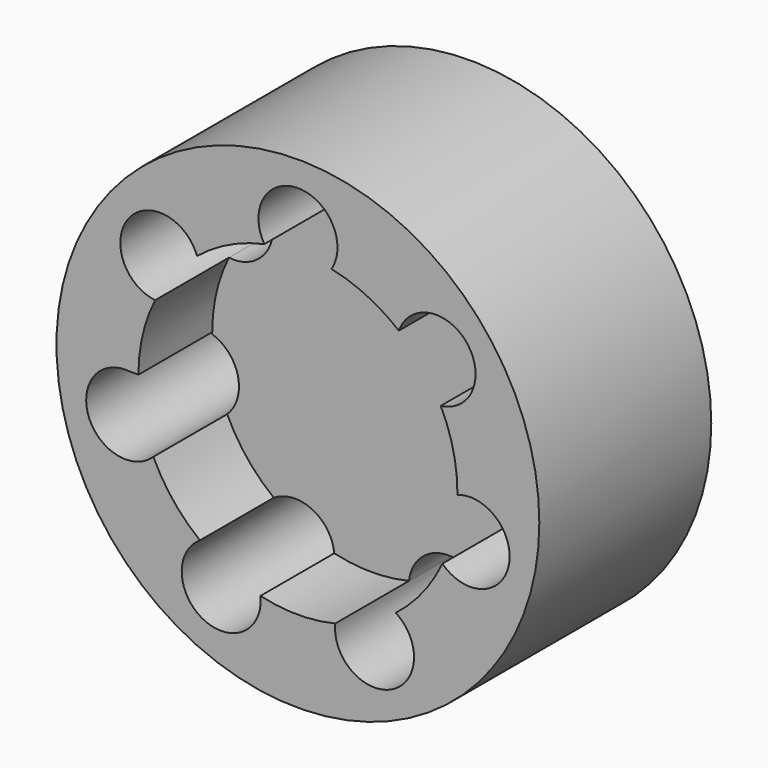
from build123d import *

# Parameters (mm, degrees)
F0_R     = 12.4968
F1_DEPTH = 11.1252
F2_DEPTH = 6.35


with BuildPart() as f1:
    # F0 (on Front) → F1 (new body)
    with BuildSketch(Plane.XZ):
        Circle(F0_R)
        with BuildLine():
            ThreePointArc((7.394862, 3.668929), (8.037089, 1.884202), (8.255, 0))
            ThreePointArc((8.255, 0), (8.254842, -0.051077), (8.254368, -0.102152))
            ThreePointArc((8.254368, -0.102152), (10.104053, -0.374671), (10.95885, -2.037478))
            ThreePointArc((10.95885, -2.037478), (9.703631, -3.923616), (7.479105, -3.493997))
            ThreePointArc((7.479105, -3.493997), (6.452437, -5.148891), (5.066648, -6.517216))
            ThreePointArc((5.066648, -6.517216), (5.758448, -7.257852), (6.009617, -8.23971))
            ThreePointArc((6.009617, -8.23971), (3.85785, -10.281605), (1.931429, -8.025871))
            ThreePointArc((1.931429, -8.025871), (-0.002536, -8.255), (-1.936361, -8.024683))
            ThreePointArc((-1.936361, -8.024683), (-1.928052, -8.130833), (-1.925279, -8.237272))
            ThreePointArc((-1.925279, -8.237272), (-4.952388, -10.030501), (-5.070652, -6.514101))
            ThreePointArc((-5.070652, -6.514101), (-6.4556, -5.144925), (-7.481251, -3.4894))
            ThreePointArc((-7.481251, -3.4894), (-10.847828, -2.70022), (-8.687861, 0))
            Line((-8.687861, 0), (-8.255, 0))
            ThreePointArc((-8.255, 0), (-8.03651, 1.886672), (-7.392606, 3.673472))
            ThreePointArc((-7.392606, 3.673472), (-8.745562, 6.97875), (-5.222453, 6.393044))
            ThreePointArc((-5.222453, 6.393044), (-3.579425, 7.438598), (-1.737178, 8.070145))
            ThreePointArc((-1.737178, 8.070145), (-0.555332, 11.111082), (2.04751, 9.144035))
            ThreePointArc((2.04751, 9.144035), (1.969685, 8.585289), (1.742137, 8.069076))
            ThreePointArc((1.742137, 8.069076), (3.583995, 7.436397), (5.22638, 6.389834))
            ThreePointArc((5.22638, 6.389834), (7.501448, 7.713433), (9.195546, 5.699016))
            ThreePointArc((9.195546, 5.699016), (8.680509, 4.342207), (7.394862, 3.668929))
        make_face(mode=Mode.SUBTRACT)
    extrude(amount=F1_DEPTH)

    # F0 (on Front) → F2 (join)
    with BuildSketch(Plane.XZ):
        with BuildLine():
            ThreePointArc((8.254368, -0.102152), (8.254842, -0.051077), (8.255, 0))
            ThreePointArc((8.255, 0), (8.037089, 1.884202), (7.394862, 3.668929))
            ThreePointArc((7.394862, 3.668929), (5.551844, 4.424657), (5.22638, 6.389834))
            ThreePointArc((5.22638, 6.389834), (3.583995, 7.436397), (1.742137, 8.069076))
            ThreePointArc((1.742137, 8.069076), (0.002181, 7.099335), (-1.737178, 8.070145))
            ThreePointArc((-1.737178, 8.070145), (-3.579425, 7.438598), (-5.222453, 6.393044))
            ThreePointArc((-5.222453, 6.393044), (-5.132818, 6.053392), (-5.102643, 5.703409))
            ThreePointArc((-5.102643, 5.703409), (-5.791004, 4.173329), (-7.392606, 3.673472))
            ThreePointArc((-7.392606, 3.673472), (-8.03651, 1.886672), (-8.255, 0))
            Line((-8.255, 0), (0, 0))
            Line((0, 0), (0, -2.032))
            Line((0, -2.032), (-6.8707, -2.032))
            ThreePointArc((-6.8707, -2.032), (-7.029505, -2.822061), (-7.481251, -3.4894))
            ThreePointArc((-7.481251, -3.4894), (-6.4556, -5.144925), (-5.070652, -6.514101))
            ThreePointArc((-5.070652, -6.514101), (-3.082251, -6.395333), (-1.936361, -8.024683))
            ThreePointArc((-1.936361, -8.024683), (-0.002536, -8.255), (1.931429, -8.025871))
            ThreePointArc((1.931429, -8.025871), (3.078321, -6.397226), (5.066648, -6.517216))
            ThreePointArc((5.066648, -6.517216), (6.452437, -5.148891), (7.479105, -3.493997))
            ThreePointArc((7.479105, -3.493997), (6.920854, -1.581877), (8.254368, -0.102152))
        make_face()
        with BuildLine():
            Line((0, 0), (-8.255, 0))
            ThreePointArc((-8.255, 0), (-8.254857, -0.048541), (-8.254429, -0.09708))
            ThreePointArc((-8.254429, -0.09708), (-7.252228, -0.842607), (-6.8707, -2.032))
            Line((-6.8707, -2.032), (0, -2.032))
            Line((0, -2.032), (0, 0))
        make_face()
    extrude(amount=F2_DEPTH)


solid = f1.part
